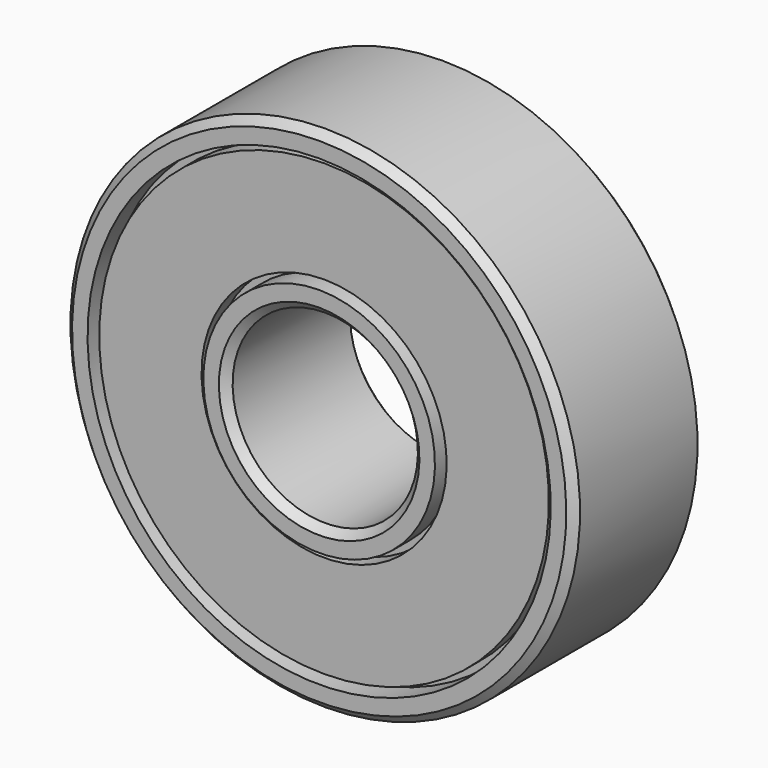
from build123d import *

# Parameters (mm, degrees)
F1_W    = 0.7335389405
F1_H    = 1.5485889072
F1_H_2  = 1.3186813187
F3_SIZE = 0.33


with BuildPart() as f2:
    # F1 (on Right) → F2 (revolve)
    with BuildSketch(Plane.YZ):
        with BuildLine():
            Line((3.5, 10), (3.5, 11))
            Line((3.5, 11), (0, 11))
            Line((0, 11), (0, 9.1895215866))
            ThreePointArc((0, 9.1895215866), (0.9328753707, 8.9086258319), (1.5555555556, 8.1593406593))
            Line((1.5555555556, 8.1593406593), (2.5, 8.1593406593))
            Line((2.5, 8.1593406593), (2.5, 9.7079295665))
            Line((2.5, 9.7079295665), (2.5, 10))
            Line((2.5, 10), (3.2335389405, 10))
            Line((3.2335389405, 10), (3.5, 10))
        make_face()
        with BuildLine():
            Line((2.5, 5.2920704335), (2.5, 6.8406593407))
            Line((2.5, 6.8406593407), (1.5555555556, 6.8406593407))
            ThreePointArc((1.5555555556, 6.8406593407), (0.9328753707, 6.0913741681), (0, 5.8104784134))
            Line((0, 5.8104784134), (0, 4))
            Line((0, 4), (3.5, 4))
            Line((3.5, 4), (3.5, 5))
            Line((3.5, 5), (3.2335389405, 5))
            Line((3.2335389405, 5), (2.5, 5))
            Line((2.5, 5), (2.5, 5.2920704335))
        make_face()
        with BuildLine():
            Line((-1.5555555556, 6.8406593407), (-2.5, 6.8406593407))
            Line((-2.5, 6.8406593407), (-2.5, 5.2920704335))
            Line((-2.5, 5.2920704335), (-2.5, 5))
            Line((-2.5, 5), (-3.2335389405, 5))
            Line((-3.2335389405, 5), (-3.5, 5))
            Line((-3.5, 5), (-3.5, 4))
            Line((-3.5, 4), (0, 4))
            Line((0, 4), (0, 5.8104784134))
            ThreePointArc((0, 5.8104784134), (-0.9328753707, 6.0913741681), (-1.5555555556, 6.8406593407))
        make_face()
        with BuildLine():
            Line((0, 9.1895215866), (0, 11))
            Line((0, 11), (-3.5, 11))
            Line((-3.5, 11), (-3.5, 10))
            Line((-3.5, 10), (-3.2335389405, 10))
            Line((-3.2335389405, 10), (-2.5, 10))
            Line((-2.5, 10), (-2.5, 9.7079295665))
            Line((-2.5, 9.7079295665), (-2.5, 8.1593406593))
            Line((-2.5, 8.1593406593), (-1.5555555556, 8.1593406593))
            ThreePointArc((-1.5555555556, 8.1593406593), (-0.9328753707, 8.9086258319), (0, 9.1895215866))
        make_face()
        with Locations((2.8667694703, 8.9336351129)):
            Rectangle(F1_W, F1_H)
        with Locations((2.8667694703, 7.5)):
            Rectangle(F1_W, F1_H_2)
        with Locations((2.8667694703, 6.0663648871)):
            Rectangle(F1_W, F1_H)
        with Locations((-2.8667694703, 8.9336351129)):
            Rectangle(F1_W, F1_H)
        with Locations((-2.8667694703, 6.0663648871)):
            Rectangle(F1_W, F1_H)
        with Locations((-2.8667694703, 7.5)):
            Rectangle(F1_W, F1_H_2)
    revolve(axis=Axis((0, 0, 0), (0, -1, 0)))

    # F3
    f3_edges = [f2.edges().sort_by_distance(p)[0] for p in [
        (0, -3.5, -4),
        (0, 3.5, -4),
        (0, 0, 4),
        (0, 3.5, -11),
        (0, -3.5, -11),
        (0, 0, 11),
    ]]
    chamfer(f3_edges, length=F3_SIZE)


solid = f2.part
